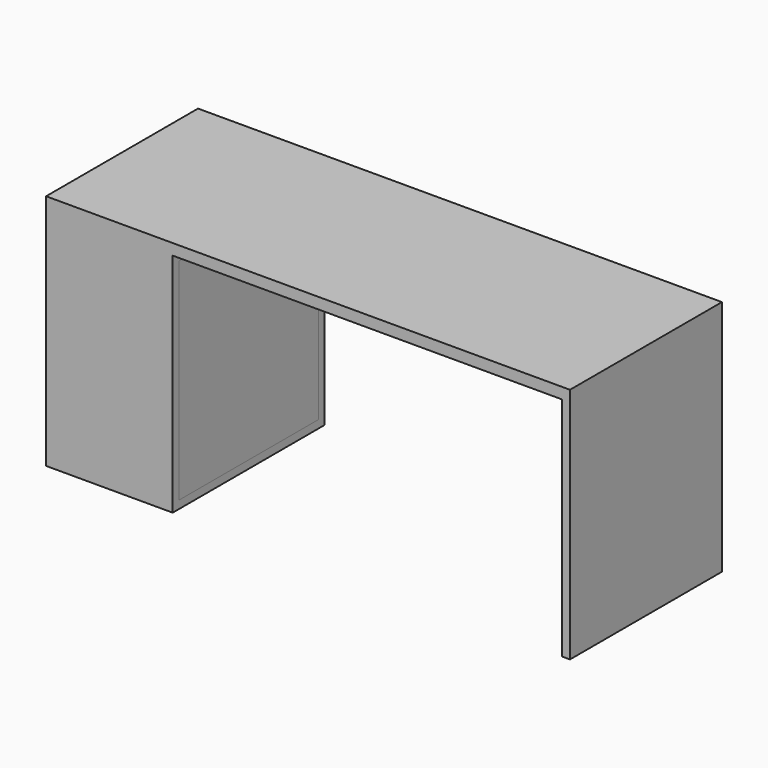
from build123d import *

# Parameters (mm, degrees)
F0_W     = 25
F0_H     = 715
F1_DEPTH = 600
F2_W     = 550
F2_H     = 665
F3_DEPTH = 375
F4_DEPTH = 25


with BuildPart() as f1:
    # F0 (on Front) → F1 (new body)
    with BuildSketch(Plane.XZ):
        Polygon((-827.5, 750), (-827.5, 0), (-427.5, 0), (-427.5, 715), (-427.5, 750), align=None)
        Polygon((-427.5, 750), (-427.5, 715), (802.5, 715), (827.5, 715), (827.5, 750), align=None)
        with Locations((815, 357.5)):
            Rectangle(F0_W, F0_H)
    extrude(amount=F1_DEPTH)

    # F2 (on face) → F3 (cut, through all)
    with BuildSketch(Plane.YZ.offset(-427.5)):
        with Locations((-300, 357.5)):
            Rectangle(F2_W, F2_H)
    extrude(amount=-F3_DEPTH, mode=Mode.SUBTRACT)


with BuildPart() as f4:
    # F2 (on face) → F4 (new body)
    with BuildSketch(Plane.YZ.offset(-427.5)):
        with Locations((-300, 357.5)):
            Rectangle(F2_W, F2_H)
    extrude(amount=-F4_DEPTH)


solid = Compound([f1.part, f4.part])
